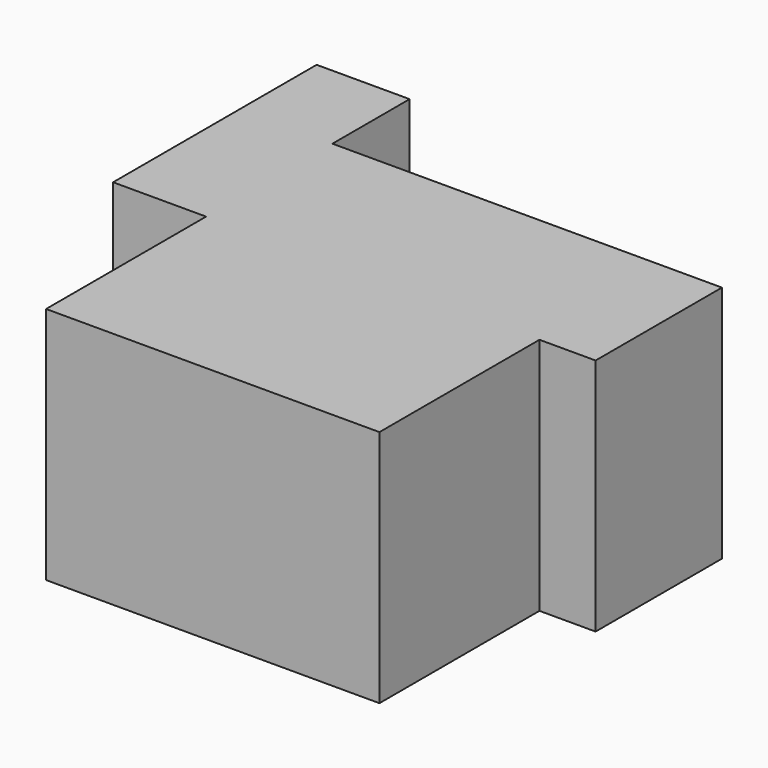
from build123d import *

# Parameters (mm, degrees)
F0_W     = 35.47701
F0_H     = 21.286208
F1_DEPTH = 25.4


with BuildPart() as f1:
    # F0 (on Top) → F1 (new body)
    with BuildSketch(Plane.XY):
        Polygon((-16.151376, 27.074562), (-26.047597, 27.074562), (-26.047597, 0), (-16.151376, 0), (-16.151376, 16.804902), align=None)
        Polygon((25.300711, 16.804902), (-16.151376, 16.804902), (-16.151376, 0), (19.325634, 0), (25.300711, 0), align=None)
        with Locations((1.587129, -10.643104)):
            Rectangle(F0_W, F0_H)
    extrude(amount=F1_DEPTH)


solid = f1.part
